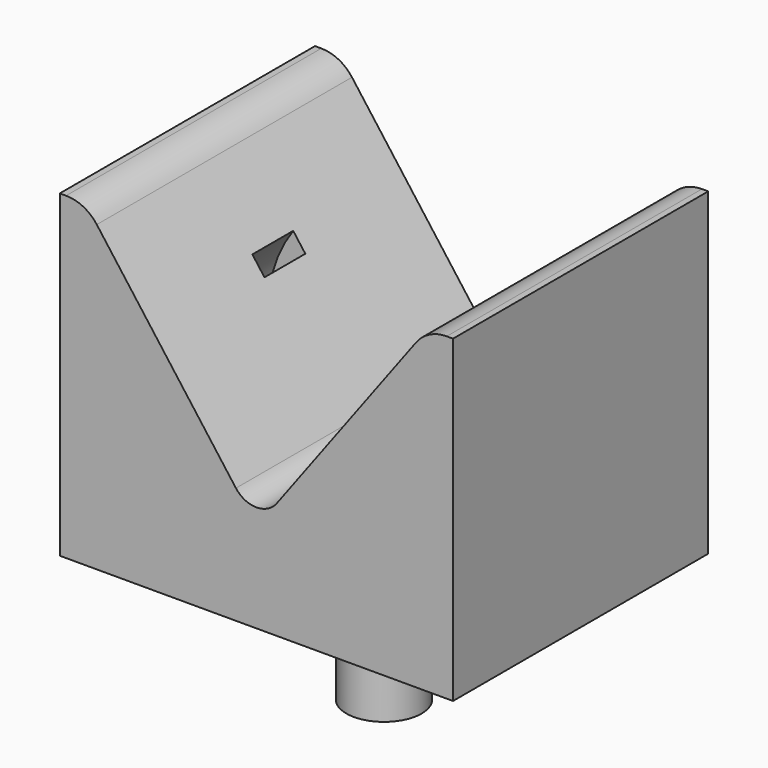
from build123d import *

# Parameters (mm, degrees)
F1_DEPTH = 25
F2_R     = 2.95
F3_DEPTH = 10
F4_R     = 3
F5_R     = 2
F8_R     = 10.709349
F8_R_2   = 9.209349
F9_DEPTH = 2


with BuildPart() as f1:
    # F0 (on Front) → F1 (new body)
    with BuildSketch(Plane.XZ):
        Polygon((13.40901, 18), (0, 0), (-13.40901, 18), (-15.40901, 18), (-15.40901, -7), (15.40901, -7), (15.40901, 18), align=None)
    extrude(amount=F1_DEPTH)

    # F2 (on face) → F3 (join)
    with BuildSketch(Plane(origin=(0, 0, -7), x_dir=(1, 0, 0), z_dir=(0, 0, -1))):
        with Locations((0, 12.5)):
            Circle(F2_R)
    extrude(amount=F3_DEPTH)

    # F4
    f4_edges = [f1.edges().sort_by_distance(p)[0] for p in [
        (-13.40901, -12.5, 18),
        (13.40901, -12.5, 18),
    ]]
    fillet(f4_edges, radius=F4_R)

    # F5
    f5_edges = [f1.edges().sort_by_distance(p)[0] for p in [
        (0, -12.5, 0),
    ]]
    fillet(f5_edges, radius=F5_R)

    # F8 (on face) → F9 (cut, symmetric)
    with BuildSketch(Plane(origin=(0, -12.5, 0), x_dir=(-1, 0, 0), z_dir=(0, 1, 0))):
        with Locations((0, 5.47572)):
            Circle(F8_R)
        with Locations((0, 5.47572)):
            Circle(F8_R_2, mode=Mode.SUBTRACT)
    extrude(amount=F9_DEPTH, both=True, mode=Mode.SUBTRACT)


solid = f1.part
